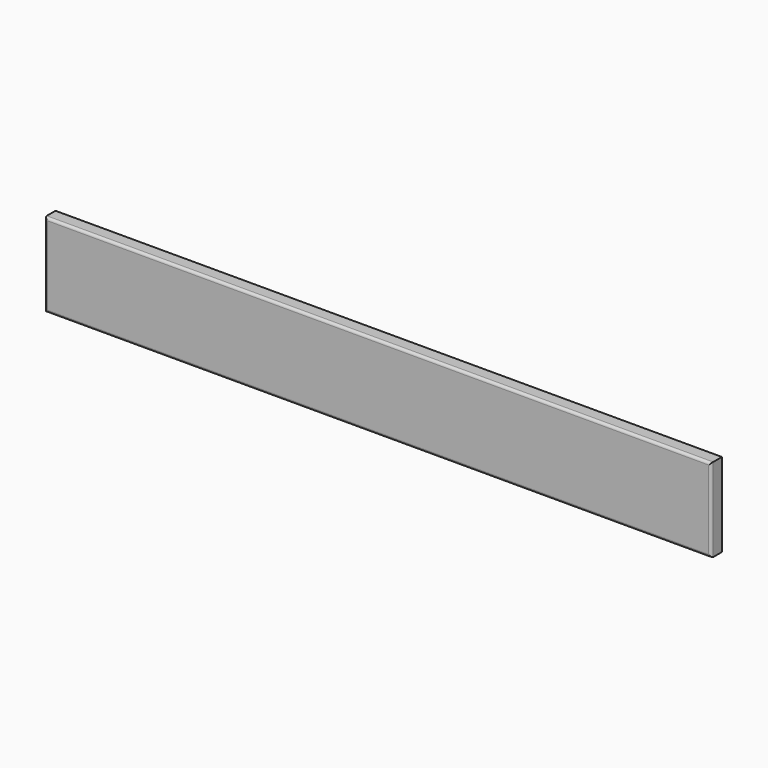
from build123d import *

# Parameters (mm, degrees)
F0_W     = 53.6684691906
F0_H     = 36.3845862448
F1_DEPTH = 16
F2_DEPTH = 396
F3_DEPTH = 100
F4_DEPTH = 200
F5_DEPTH = 200
F6_R     = 3


with BuildPart() as f1:
    # F0 (on Front) → F1 (new body)
    with BuildSketch(Plane.XZ):
        with Locations((26.8342345953, 18.1922931224)):
            Rectangle(F0_W, F0_H)
    extrude(amount=F1_DEPTH)

    # F2 (add): a face of the model
    f2_faces = [f1.faces().sort_by_distance(p)[0] for p in [
        (0, -8, 18.1922931224),
    ]]
    extrude(f2_faces, amount=-F2_DEPTH)

    # F3 (add): a face of the model
    f3_faces = [f1.faces().sort_by_distance(p)[0] for p in [
        (198, -8, 0),
    ]]
    extrude(f3_faces, amount=-F3_DEPTH)

    # F4 (add): a face of the model
    f4_faces = [f1.faces().sort_by_distance(p)[0] for p in [
        (396, -8, 50),
    ]]
    extrude(f4_faces, amount=F4_DEPTH)

    # F5 (add): a face of the model
    f5_faces = [f1.faces().sort_by_distance(p)[0] for p in [
        (596, -8, 50),
    ]]
    extrude(f5_faces, amount=F5_DEPTH)

    # F6
    f6_edges = [f1.edges().sort_by_distance(p)[0] for p in [
        (0, -16, 50),
        (398, -16, 0),
        (796, -16, 50),
        (398, -16, 100),
    ]]
    fillet(f6_edges, radius=F6_R)


solid = f1.part
